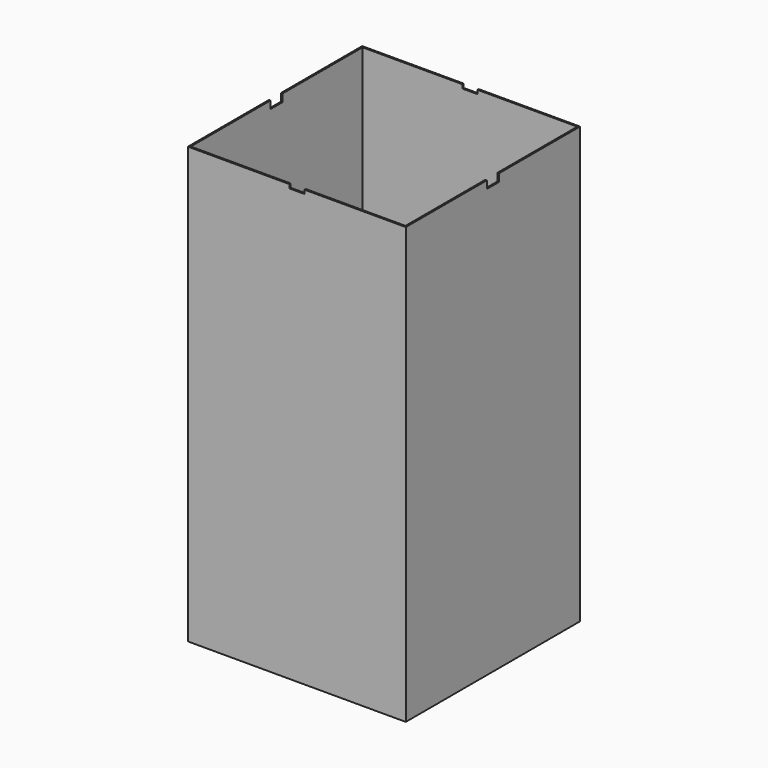
from build123d import *

# Parameters (mm, degrees)
F0_W     = 114.3
F0_H     = 114.3
F1_DEPTH = 228.6
F2_T     = -0.8
F3_R     = 1
F4_DEPTH = 25.4
F5_W     = 8
F5_H     = 2
F6_DEPTH = 114.301
F7_W     = 8
F7_H     = 4
F8_DEPTH = 114.301


with BuildPart() as f1:
    # F0 (on Top) → F1 (new body)
    with BuildSketch(Plane.XY):
        Rectangle(F0_W, F0_H)
    extrude(amount=F1_DEPTH)

    # F2
    f2_openings = [f1.faces().sort_by_distance(p)[0] for p in [
        (0, 0, 228.6),
    ]]
    offset(amount=F2_T, openings=f2_openings)

    # F3 (on face) → F4 (cut)
    with BuildSketch(Plane.XY.offset(0.8)):
        Circle(F3_R)
    extrude(amount=-F4_DEPTH, mode=Mode.SUBTRACT)

    # F5 (on face) → F6 (cut, through all)
    with BuildSketch(Plane.XZ.offset(57.15)):
        with Locations((0, 227.6)):
            Rectangle(F5_W, F5_H)
    extrude(amount=-F6_DEPTH, mode=Mode.SUBTRACT)

    # F7 (on face) → F8 (cut, through all)
    with BuildSketch(Plane.YZ.offset(57.15)):
        with Locations((0, 226.6)):
            Rectangle(F7_W, F7_H)
    extrude(amount=-F8_DEPTH, mode=Mode.SUBTRACT)


solid = f1.part
